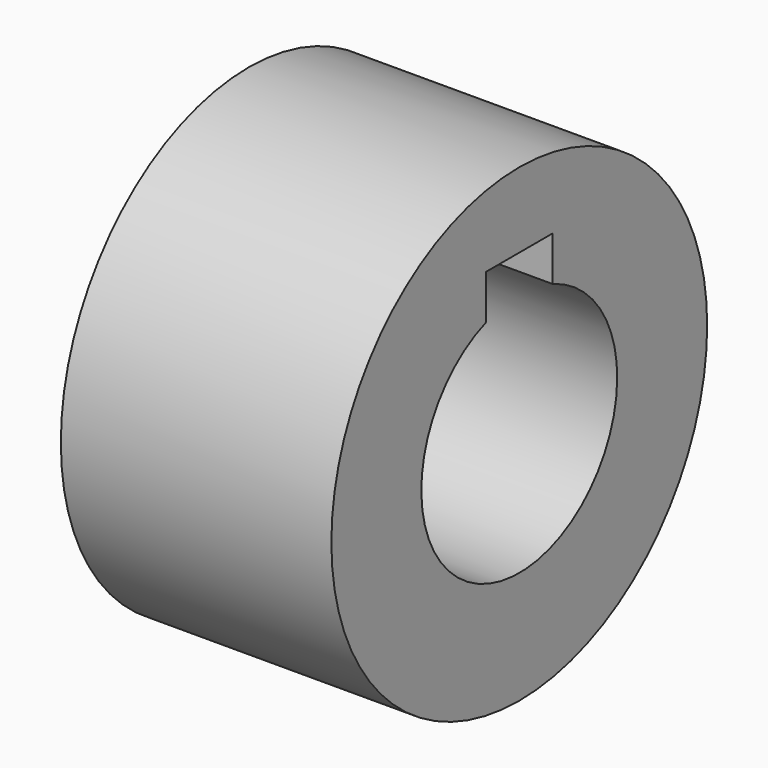
from build123d import *

# Parameters (mm, degrees)
F0_W     = 42.6243245602
F0_H     = 17.7194328527
F2_W     = 13.1365954876
F2_H     = 19.5219665766
F3_DEPTH = 78.1549476087


with BuildPart() as f1:
    # F0 (on Front) → F1 (revolve)
    with BuildSketch(Plane.XZ):
        with Locations((21.3121622801, 28.1459019294)):
            Rectangle(F0_W, F0_H)
    revolve(axis=Axis((9.0612024069, 0, 0), (1, 0, 0)))

    # F2 (on Right) → F3 (cut)
    with BuildSketch(Plane.YZ):
        with Locations((0, 15.3909772635)):
            Rectangle(F2_W, F2_H)
    extrude(amount=F3_DEPTH, mode=Mode.SUBTRACT)


solid = f1.part
